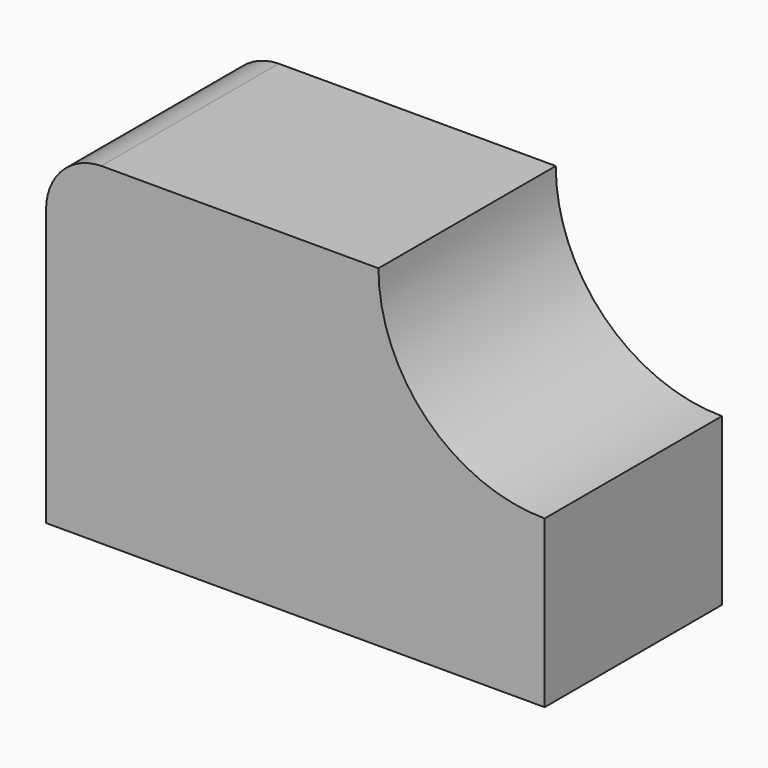
from build123d import *

# Parameters (mm, degrees)
F0_W     = 57.15
F0_H     = 38.1
F1_DEPTH = 25.4
F3_DEPTH = 25.4
F5_DEPTH = 25.4


with BuildPart() as f1:
    # F0 (on Front) → F1 (new body)
    with BuildSketch(Plane.XZ):
        with Locations((-7.0866, 19.05)):
            Rectangle(F0_W, F0_H)
    extrude(amount=F1_DEPTH)

    # F2 (on face) → F3 (cut)
    with BuildSketch(Plane.XZ.offset(25.4)):
        with BuildLine():
            Line((21.4884, 38.1), (2.4384, 38.1))
            ThreePointArc((2.4384, 38.1), (8.018016, 24.629616), (21.4884, 19.05))
            Line((21.4884, 19.05), (21.4884, 38.1))
        make_face()
    extrude(amount=-F3_DEPTH, mode=Mode.SUBTRACT)

    # F4 (on face) → F5 (cut)
    with BuildSketch(Plane.XZ.offset(25.4)):
        with BuildLine():
            ThreePointArc((-35.6616, 31.75), (-33.772823, 36.211223), (-29.3116, 38.1))
            Line((-29.3116, 38.1), (-35.6616, 38.1))
            Line((-35.6616, 38.1), (-35.6616, 31.75))
        make_face()
    extrude(amount=-F5_DEPTH, mode=Mode.SUBTRACT)


solid = f1.part
